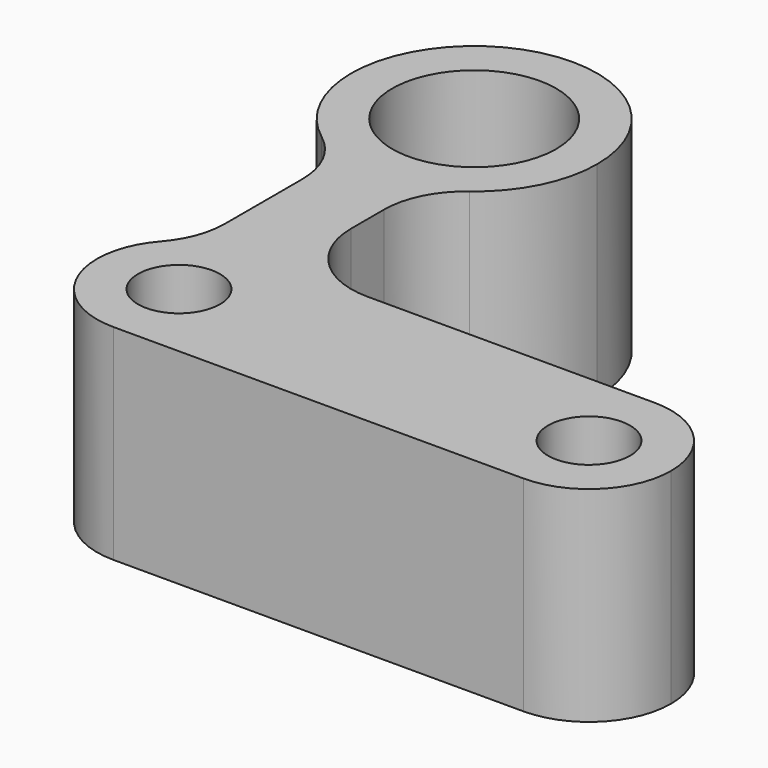
from build123d import *

# Parameters (mm, degrees)
F0_R     = 5
F0_R_2   = 10
F1_DEPTH = 25


with BuildPart() as f1:
    # F0 (on Top) → F1 (new body)
    with BuildSketch(Plane.XY):
        with BuildLine():
            ThreePointArc((-33.198925, -40.524198), (-30.269993, -47.595265), (-23.198925, -50.524198))
            Line((-23.198925, -50.524198), (26.801075, -50.524198))
            ThreePointArc((26.801075, -50.524198), (33.872142, -47.595265), (36.801075, -40.524198))
            ThreePointArc((36.801075, -40.524198), (33.872142, -33.45313), (26.801075, -30.524198))
            Line((26.801075, -30.524198), (-8.198925, -30.524198))
            ThreePointArc((-8.198925, -30.524198), (-15.269993, -27.595265), (-18.198925, -20.524198))
            Line((-18.198925, -20.524198), (-18.198925, -19.158835))
            Line((-18.198925, -19.158835), (-18.198925, -15.524198))
            ThreePointArc((-18.198925, -15.524198), (-17.143197, -11.052062), (-14.198925, -7.524198))
            ThreePointArc((-14.198925, -7.524198), (-9.782518, -2.232401), (-8.198925, 4.475802))
            ThreePointArc((-8.198925, 4.475802), (-12.592324, 15.082404), (-23.198925, 19.475802))
            ThreePointArc((-23.198925, 19.475802), (-33.805527, 15.082404), (-38.198925, 4.475802))
            ThreePointArc((-38.198925, 4.475802), (-36.615333, -2.232401), (-32.198925, -7.524198))
            ThreePointArc((-32.198925, -7.524198), (-29.254653, -11.052062), (-28.198925, -15.524198))
            Line((-28.198925, -15.524198), (-28.198925, -19.158835))
            Line((-28.198925, -19.158835), (-28.198925, -27.295441))
            ThreePointArc((-28.198925, -27.295441), (-28.844782, -30.830975), (-30.698925, -33.909819))
            ThreePointArc((-30.698925, -33.909819), (-32.553069, -36.988664), (-33.198925, -40.524198))
        make_face()
        with Locations((-23.198925, -40.524198)):
            Circle(F0_R, mode=Mode.SUBTRACT)
        with Locations((26.801075, -40.524198)):
            Circle(F0_R, mode=Mode.SUBTRACT)
        with Locations((-23.198925, 4.475802)):
            Circle(F0_R_2, mode=Mode.SUBTRACT)
    extrude(amount=F1_DEPTH)


solid = f1.part
